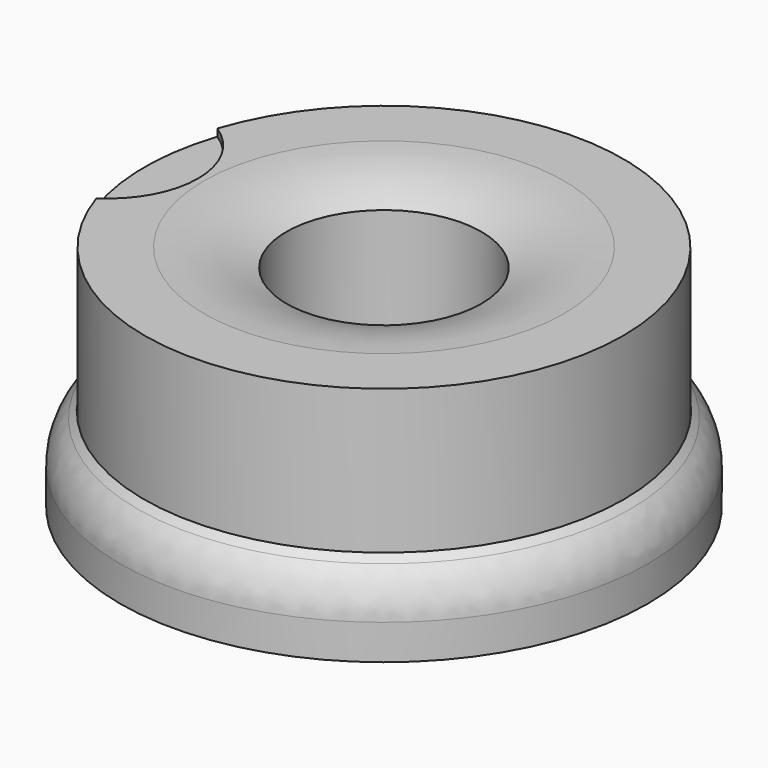
from build123d import *

# Parameters (mm, degrees)
F4_R     = 7.5
F5_DEPTH = 0.6
F6_R     = 5
F7_SIZE  = 0.5
F8_SIZE  = 0.5


with BuildPart() as f1:
    # F0 (on Front) → F1 (revolve)
    with BuildSketch(Plane.XZ):
        with BuildLine():
            Line((8.125, 14.5), (8.125, 0))
            Line((8.125, 0), (19.95, 0))
            Line((19.95, 0), (19.95, 16))
            Line((19.95, 16), (15, 16))
            ThreePointArc((15, 16), (11.481633, 15.62064), (8.125, 14.5))
        make_face()
    revolve(axis=Axis((0, 0, 49.408998), (0, 0, 1)))

    # F4 (on face) → F5 (cut)
    with BuildSketch(Plane.XY.offset(16)):
        with Locations((-23, 0)):
            Circle(F4_R)
    extrude(amount=-F5_DEPTH, mode=Mode.SUBTRACT)

    # F8
    f8_edges = [f1.edges().sort_by_distance(p)[0] for p in [
        (-19.95, 0, 0),
        (-8.125, 0, 0),
    ]]
    chamfer(f8_edges, length=F8_SIZE)


with BuildPart() as f3:
    # F2 (on Front) → F3 (revolve)
    with BuildSketch(Plane.XZ):
        Polygon((20, 0), (18.05, 0), (18.05, -3), (22, -3), (22, 2), (20, 4), align=None)
    revolve(axis=Axis((0, 0, -7.16383), (0, 0, -1)))

    # F6
    f6_edges = [f3.edges().sort_by_distance(p)[0] for p in [
        (-22, 0, 2),
    ]]
    fillet(f6_edges, radius=F6_R)

    # F7
    f7_edges = [f3.edges().sort_by_distance(p)[0] for p in [
        (-18.05, 0, -3),
    ]]
    chamfer(f7_edges, length=F7_SIZE)


solid = Compound([f1.part, f3.part])
